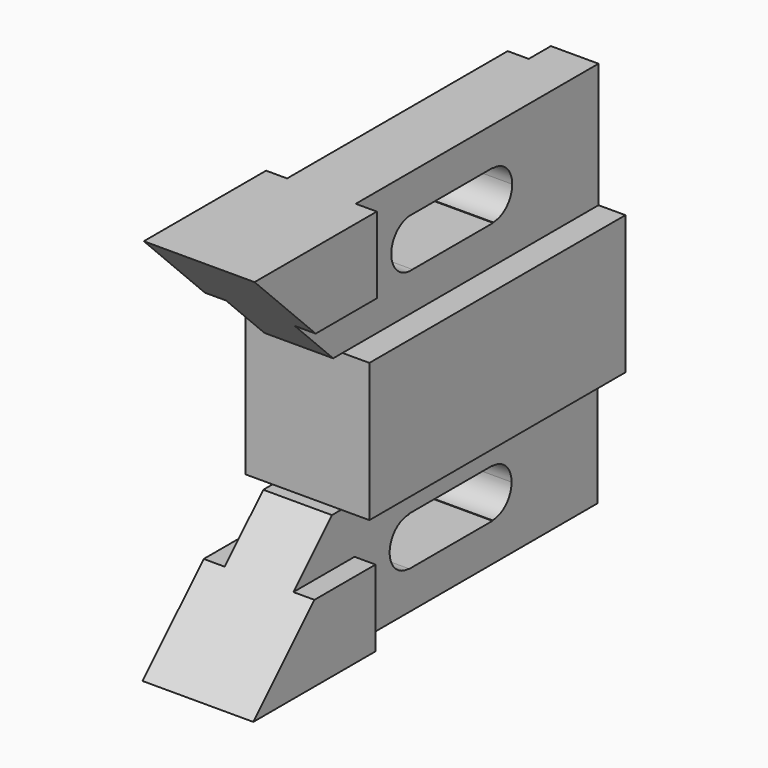
from build123d import *

# Parameters (mm, degrees)
F0_W      = 28.448
F0_H      = 73.406
F1_DEPTH  = 15.875
F4_DEPTH  = 28.575
F5_DEPTH  = 28.575
F7_DEPTH  = 17.526
F9_DEPTH  = 17.526
F10_W     = 15.748
F10_H     = 35.052
F11_DEPTH = 28.575
F12_W     = 15.748
F12_H     = 35.052
F13_DEPTH = 28.575
F15_DEPTH = 27.0975020094
F17_DEPTH = 25.4
F19_DEPTH = 25.4
F21_DEPTH = 25.4


with BuildPart() as f1:
    # F0 (on Top) → F1 (new body, symmetric)
    with BuildSketch(Plane.XY):
        Rectangle(F0_W, F0_H)
    extrude(amount=F1_DEPTH, both=True)

    # F2 (on face) → F4 (join)
    with BuildSketch(Plane.XY.offset(15.875)):
        Polygon((8.0465020094, 36.703), (-2.8754979906, 36.703), (-2.8754979906, 30.353), (-7.7014979906, 30.353), (-7.7014979906, -32.893), (8.0465020094, -32.893), align=None)
    extrude(amount=F4_DEPTH)

    # F3 (on face) → F5 (join)
    with BuildSketch(Plane(origin=(0, 0, -15.875), x_dir=(1, 0, 0), z_dir=(0, 0, -1))):
        Polygon((-3.1607374152, -30.353), (-3.1607374152, -36.703), (7.7612625848, -36.703), (7.7612625848, 32.893), (-7.9867374152, 32.893), (-7.9867374152, -30.353), align=None)
    extrude(amount=F5_DEPTH)

    # F6 (on face) → F7 (join)
    with BuildSketch(Plane.XY.offset(44.45)):
        Polygon((-7.7014979906, -32.893), (-12.5274979906, -32.893), (-12.5274979906, -67.945), (12.8725020094, -67.945), (12.8725020094, -32.893), (8.0465020094, -32.893), align=None)
    extrude(amount=-F7_DEPTH)

    # F8 (on face) → F9 (join)
    with BuildSketch(Plane(origin=(0, 0, -44.45), x_dir=(1, 0, 0), z_dir=(0, 0, -1))):
        Polygon((-12.8127374152, 67.945), (-12.8127374152, 32.893), (-7.9867374152, 32.893), (7.7612625848, 32.893), (12.5872625848, 32.893), (12.5872625848, 67.945), align=None)
    extrude(amount=-F9_DEPTH)

    # F10 (on face) → F11 (join)
    with BuildSketch(Plane.XY.offset(44.45)):
        with Locations((0.1725020094, -50.419)):
            Rectangle(F10_W, F10_H)
    extrude(amount=-F11_DEPTH)

    # F12 (on face) → F13 (join)
    with BuildSketch(Plane(origin=(0, 0, -44.45), x_dir=(1, 0, 0), z_dir=(0, 0, -1))):
        with Locations((-0.1127374152, 50.419)):
            Rectangle(F12_W, F12_H)
    extrude(amount=-F13_DEPTH)

    # F14 (on face) → F15 (cut, through all)
    with BuildSketch(Plane.YZ.offset(12.8725020094)):
        Polygon((-50.419, 26.924), (-67.945, 26.924), (-67.945, 15.875), (-39.37, 15.875), align=None)
        Polygon((-50.419, 26.924), (-67.945, 44.45), (-67.945, 26.924), align=None)
    extrude(amount=-F15_DEPTH, mode=Mode.SUBTRACT)

    # F16 (on face) → F17 (cut)
    with BuildSketch(Plane.YZ.offset(12.5872625848)):
        Polygon((-67.945, -15.875), (-67.945, -26.924), (-50.419, -26.924), (-39.37, -15.875), align=None)
        Polygon((-67.945, -26.924), (-67.945, -44.45), (-50.419, -26.924), align=None)
    extrude(amount=-F17_DEPTH, mode=Mode.SUBTRACT)

    # F18 (on face) → F19 (cut)
    with BuildSketch(Plane.YZ.offset(8.0465020094)):
        with BuildLine():
            Line((-16.6304964619, 24.5745), (-17.1099361032, 24.5745))
            Line((-17.1099361032, 24.5745), (-17.1099361032, 35.7505))
            Line((-17.1099361032, 35.7505), (-16.6304964619, 35.7505))
            ThreePointArc((-16.6304964619, 35.7505), (-22.7184658901, 30.1625), (-16.6304964619, 24.5745))
        make_face()
        with BuildLine():
            Line((-17.1099361032, 35.7505), (-17.1099361032, 24.5745))
            Line((-17.1099361032, 24.5745), (-16.6304964619, 24.5745))
            ThreePointArc((-16.6304964619, 24.5745), (-12.9780746656, 26.369964248), (-11.5014063164, 30.1625))
            ThreePointArc((-11.5014063164, 30.1625), (-12.9780746656, 33.955035752), (-16.6304964619, 35.7505))
            Line((-16.6304964619, 35.7505), (-17.1099361032, 35.7505))
        make_face()
        with BuildLine():
            ThreePointArc((-11.5014063164, 30.1625), (-12.9780746656, 26.369964248), (-16.6304964619, 24.5745))
            Line((-16.6304964619, 24.5745), (6.4878210612, 24.5745))
            Line((6.4878210612, 24.5745), (6.4878210612, 24.687532988))
            ThreePointArc((6.4878210612, 24.687532988), (1.0128540493, 30.1625), (6.4878210612, 35.637467012))
            Line((6.4878210612, 35.637467012), (6.4878210612, 35.7505))
            Line((6.4878210612, 35.7505), (-16.6304964619, 35.7505))
            ThreePointArc((-16.6304964619, 35.7505), (-12.9780746656, 33.955035752), (-11.5014063164, 30.1625))
        make_face()
        with BuildLine():
            ThreePointArc((6.4878210612, 35.637467012), (1.0128540493, 30.1625), (6.4878210612, 24.687532988))
            Line((6.4878210612, 24.687532988), (6.4878210612, 35.637467012))
        make_face()
        with BuildLine():
            Line((6.4878210612, 35.637467012), (6.4878210612, 24.687532988))
            ThreePointArc((6.4878210612, 24.687532988), (10.3592073622, 26.2911136991), (11.9627880732, 30.1625))
            ThreePointArc((11.9627880732, 30.1625), (10.3592073622, 34.0338863009), (6.4878210612, 35.637467012))
        make_face()
    extrude(amount=-F19_DEPTH, mode=Mode.SUBTRACT)

    # F20 (on face) → F21 (cut)
    with BuildSketch(Plane.YZ.offset(7.7612625848)):
        with BuildLine():
            ThreePointArc((-17.3597068011, -24.6973145474), (-22.8248922537, -30.1625), (-17.3597068011, -35.6276854526))
            Line((-17.3597068011, -35.6276854526), (-17.3597068011, -24.6973145474))
        make_face()
        with BuildLine():
            Line((-17.3597068011, -24.6973145474), (-17.3597068011, -35.6276854526))
            ThreePointArc((-17.3597068011, -35.6276854526), (-13.4952371071, -34.026969694), (-11.8945213485, -30.1625))
            ThreePointArc((-11.8945213485, -30.1625), (-13.4952371071, -26.298030306), (-17.3597068011, -24.6973145474))
        make_face()
        with BuildLine():
            Line((-17.3597068011, -35.7505), (6.6567515023, -35.7505))
            Line((6.6567515023, -35.7505), (6.6567515023, -35.6466932751))
            ThreePointArc((6.6567515023, -35.6466932751), (1.1725582272, -30.1625), (6.6567515023, -24.6783067249))
            Line((6.6567515023, -24.6783067249), (6.6567515023, -24.5745))
            Line((6.6567515023, -24.5745), (-17.3597068011, -24.5745))
            Line((-17.3597068011, -24.5745), (-17.3597068011, -24.6973145474))
            ThreePointArc((-17.3597068011, -24.6973145474), (-13.4952371071, -26.298030306), (-11.8945213485, -30.1625))
            ThreePointArc((-11.8945213485, -30.1625), (-13.4952371071, -34.026969694), (-17.3597068011, -35.6276854526))
            Line((-17.3597068011, -35.6276854526), (-17.3597068011, -35.7505))
        make_face()
        with BuildLine():
            ThreePointArc((6.6567515023, -24.6783067249), (1.1725582272, -30.1625), (6.6567515023, -35.6466932751))
            Line((6.6567515023, -35.6466932751), (6.6567515023, -24.6783067249))
        make_face()
        with BuildLine():
            Line((6.6567515023, -24.6783067249), (6.6567515023, -35.6466932751))
            ThreePointArc((6.6567515023, -35.6466932751), (10.5346617564, -34.0404102541), (12.1409447774, -30.1625))
            ThreePointArc((12.1409447774, -30.1625), (10.5346617564, -26.2845897459), (6.6567515023, -24.6783067249))
        make_face()
    extrude(amount=-F21_DEPTH, mode=Mode.SUBTRACT)


solid = f1.part
